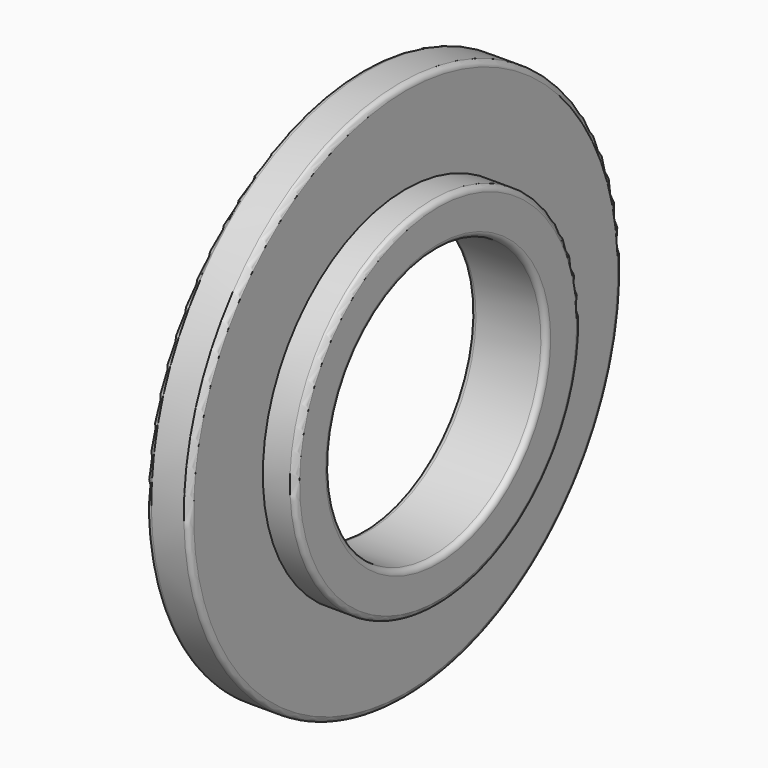
from build123d import *

# Parameters (mm, degrees)
F2_R = 0.5


with BuildPart() as f1:
    # F0 (on Front) → F1 (revolve)
    with BuildSketch(Plane.XZ):
        Polygon((0, 12.5), (0, 0), (7, 0), (7, 4), (4, 4), (4, 12.5), align=None)
    revolve(axis=Axis((3.8521992376, 0, -12.5), (1, 0, 0)))

    # F2
    f2_edges = [f1.edges().sort_by_distance(p)[0] for p in [
        (7, 0, -29),
        (7, 0, -25),
        (4, 0, -37.5),
        (0, 0, -25),
        (0, 0, -37.5),
    ]]
    fillet(f2_edges, radius=F2_R)


solid = f1.part
